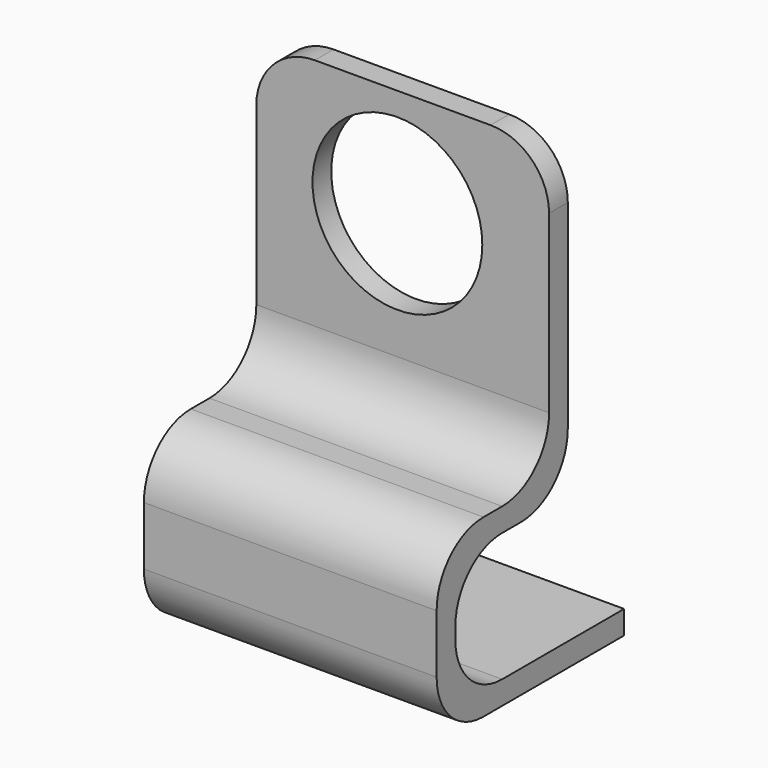
from build123d import *

# Parameters (mm, degrees)
F1_DEPTH = 25
F2_R     = 5
F3_R     = 7.25
F4_DEPTH = 25


with BuildPart() as f1:
    # F0 (on Right) → F1 (new body)
    with BuildSketch(Plane.YZ):
        Polygon((6.056661, 29.318909), (4.056661, 29.318909), (4.056661, 4.318909), (-7.943339, 4.318909), (-7.943339, -10.681091), (12.056661, -10.681091), (12.06602, -8.681091), (-5.943339, -8.681091), (-5.943339, 2.318909), (6.056661, 2.318909), align=None)
    extrude(amount=F1_DEPTH)

    # F2
    f2_edges = [f1.edges().sort_by_distance(p)[0] for p in [
        (12.5, 4.056661, 4.318909),
        (12.5, -7.943339, 4.318909),
        (12.5, -7.943339, -10.681091),
        (12.5, -5.943339, 2.318909),
        (12.5, -5.943339, -8.681091),
        (12.5, 6.056661, 2.318909),
        (25, 5.056661, 29.318909),
        (0, 5.056661, 29.318909),
    ]]
    fillet(f2_edges, radius=F2_R)

    # F3 (on Front) → F4 (cut)
    with BuildSketch(Plane.XZ):
        with Locations((12.048211, 20.089075)):
            Circle(F3_R)
    extrude(amount=-F4_DEPTH, mode=Mode.SUBTRACT)


solid = f1.part
